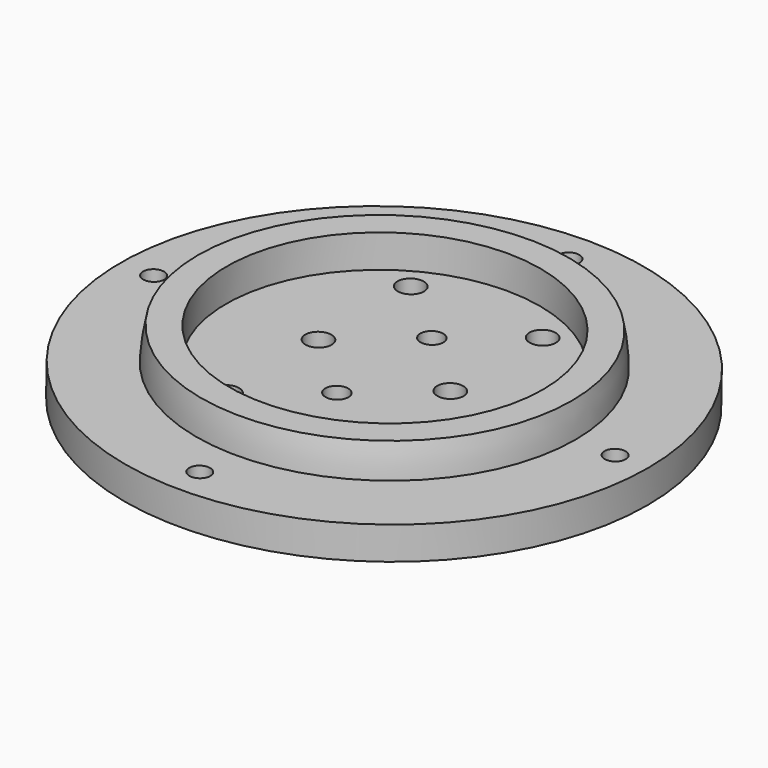
from build123d import *

# Parameters (mm, degrees)
CYLINDER115_R          = 1.6
CYLINDER115_DEPTH      = 10
CYLINDER116_R          = 1.6
CYLINDER116_DEPTH      = 10
CYLINDER117_R          = 1.6
CYLINDER117_DEPTH      = 10
CYLINDER114_R          = 1.6
CYLINDER114_DEPTH      = 10
CYLINDER111_R          = 2
CYLINDER111_DEPTH      = 10
CYLINDER110_R          = 2
CYLINDER110_DEPTH      = 10
CYLINDER113_R          = 1.75
CYLINDER113_DEPTH      = 10
CYLINDER112_R          = 1.75
CYLINDER112_DEPTH      = 10
CYLINDER104_R          = 2
CYLINDER104_DEPTH      = 10
CYLINDER105_R          = 2
CYLINDER105_DEPTH      = 10
CYLINDER106_R          = 2
CYLINDER106_DEPTH      = 10
CYLINDER107_R          = 2
CYLINDER107_DEPTH      = 10
CYLINDER109_R          = 24
CYLINDER109_DEPTH      = 7
CYLINDER108_R          = 40
CYLINDER108_DEPTH      = 5
CUT014_PLACEMENT_ANGLE = 1


with BuildPart() as obj1:
    # Cylinder115 → Cylinder115 (new body)
    with BuildSketch(Plane(origin=(40, 0, 65), x_dir=(1, 0, 0), z_dir=(0, 0, 1))):
        Circle(CYLINDER115_R)
    extrude(amount=CYLINDER115_DEPTH)


with BuildPart() as obj2:
    # Cylinder116 → Cylinder116 (new body)
    with BuildSketch(Plane(origin=(5, 35, 65), x_dir=(1, 0, 0), z_dir=(0, 0, 1))):
        Circle(CYLINDER116_R)
    extrude(amount=CYLINDER116_DEPTH)


with BuildPart() as obj3:
    # Cylinder117 → Cylinder117 (new body)
    with BuildSketch(Plane(origin=(5, -35, 65), x_dir=(1, 0, 0), z_dir=(0, 0, 1))):
        Circle(CYLINDER117_R)
    extrude(amount=CYLINDER117_DEPTH)


with BuildPart() as fusion037:
    # Cylinder114 → Cylinder114 (new body)
    with BuildSketch(Plane(origin=(-30, 0, 65), x_dir=(1, 0, 0), z_dir=(0, 0, 1))):
        Circle(CYLINDER114_R)
    extrude(amount=CYLINDER114_DEPTH)

    # Fusion037: union obj1, obj2, obj3
    add(obj1.part)
    add(obj2.part)
    add(obj3.part)


with BuildPart() as wirecut007:
    # Cylinder111 → Cylinder111 (new body)
    with BuildSketch(Plane(origin=(15, 0, 70), x_dir=(1, 0, 0), z_dir=(0, 0, 1))):
        Circle(CYLINDER111_R)
    extrude(amount=CYLINDER111_DEPTH)


with BuildPart() as wirecuts003:
    # Cylinder110 → Cylinder110 (new body)
    with BuildSketch(Plane(origin=(-5, 0, 70), x_dir=(1, 0, 0), z_dir=(0, 0, 1))):
        Circle(CYLINDER110_R)
    extrude(amount=CYLINDER110_DEPTH)

    # Fusion033: union wireCUt007
    add(wirecut007.part)


with BuildPart() as m3cuts007:
    # Cylinder113 → Cylinder113 (new body)
    with BuildSketch(Plane(origin=(5, 9, 70), x_dir=(1, 0, 0), z_dir=(0, 0, 1))):
        Circle(CYLINDER113_R)
    extrude(amount=CYLINDER113_DEPTH)


with BuildPart() as m3cute003:
    # Cylinder112 → Cylinder112 (new body)
    with BuildSketch(Plane(origin=(5, -9, 70), x_dir=(1, 0, 0), z_dir=(0, 0, 1))):
        Circle(CYLINDER112_R)
    extrude(amount=CYLINDER112_DEPTH)

    # Fusion034: union m3Cuts007
    add(m3cuts007.part)


with BuildPart() as cylinder104:
    # Cylinder104 → Cylinder104 (new body)
    with BuildSketch(Plane(origin=(0, -21, 0), x_dir=(1, 0, 0), z_dir=(0, 0, 1))):
        Circle(CYLINDER104_R)
    extrude(amount=CYLINDER104_DEPTH)


with BuildPart() as m3heatsetcuts009:
    # Cylinder105 → Cylinder105 (new body)
    with BuildSketch(Plane(origin=(20, -21, 0), x_dir=(1, 0, 0), z_dir=(0, 0, 1))):
        Circle(CYLINDER105_R)
    extrude(amount=CYLINDER105_DEPTH)

    # Fusion030: union Cylinder104
    add(cylinder104.part)


with BuildPart() as m3heatsetcuts009_1:
    # Fusion030 placement: moved
    add(m3heatsetcuts009.part.moved(Location((-5, 38.5, 70))))


with BuildPart() as cylinder106:
    # Cylinder106 → Cylinder106 (new body)
    with BuildSketch(Plane(origin=(0, -21, 0), x_dir=(1, 0, 0), z_dir=(0, 0, 1))):
        Circle(CYLINDER106_R)
    extrude(amount=CYLINDER106_DEPTH)


with BuildPart() as basecuts003:
    # Cylinder107 → Cylinder107 (new body)
    with BuildSketch(Plane(origin=(20, -21, 0), x_dir=(1, 0, 0), z_dir=(0, 0, 1))):
        Circle(CYLINDER107_R)
    extrude(amount=CYLINDER107_DEPTH)

    # Fusion031: union Cylinder106
    add(cylinder106.part)


with BuildPart() as basecuts003_1:
    # Fusion031 placement: moved
    add(basecuts003.part.moved(Location((-5, 3.5, 70))))

    # Fusion032: union m3HeatSetCuts009
    add(m3heatsetcuts009_1.part)

    # Fusion035: union wireCuts003, m3Cute003
    add(wirecuts003.part)
    add(m3cute003.part)


with BuildPart() as basecut003:
    # Cylinder109 → Cylinder109 (new body)
    with BuildSketch(Plane(origin=(5, 0, 74), x_dir=(1, 0, 0), z_dir=(0, 0, 1))):
        Circle(CYLINDER109_R)
    extrude(amount=CYLINDER109_DEPTH)


with BuildPart() as cut012:
    # Sphere004 → Sphere004 (revolve)
    with BuildSketch(Plane(origin=(5, 0, 74), x_dir=(1, 0, 0), z_dir=(0, -1, 0))):
        with BuildLine():
            ThreePointArc((29, 0), (28.841135, 3.031325), (28.36628, 6.029439))
            Line((28.36628, 6.029439), (0, 6.029439))
            Line((0, 6.029439), (0, 0))
            Line((0, 0), (29, 0))
        make_face()
    revolve(axis=Axis((5, 0, 74), (0, 0, 1)))

    # Cut012: cut baseCut003
    add(basecut003.part, mode=Mode.SUBTRACT)


with BuildPart() as lightmodule003:
    # Cylinder108 → Cylinder108 (new body)
    with BuildSketch(Plane(origin=(5, 0, 70), x_dir=(1, 0, 0), z_dir=(0, 0, 1))):
        Circle(CYLINDER108_R)
    extrude(amount=CYLINDER108_DEPTH)

    # Fusion036: union Cut012
    add(cut012.part)

    # Cut013: cut baseCUts003
    add(basecuts003_1.part, mode=Mode.SUBTRACT)

    # Cut014: cut Fusion037
    add(fusion037.part, mode=Mode.SUBTRACT)


with BuildPart() as lightmodule003_1:
    # Cut014 placement: moved
    add(lightmodule003.part.moved(Location((-46.5, -276, 0))).rotate(Axis((-46.5, -276, 0), (0, 1, 0)), CUT014_PLACEMENT_ANGLE))


solid = lightmodule003_1.part
